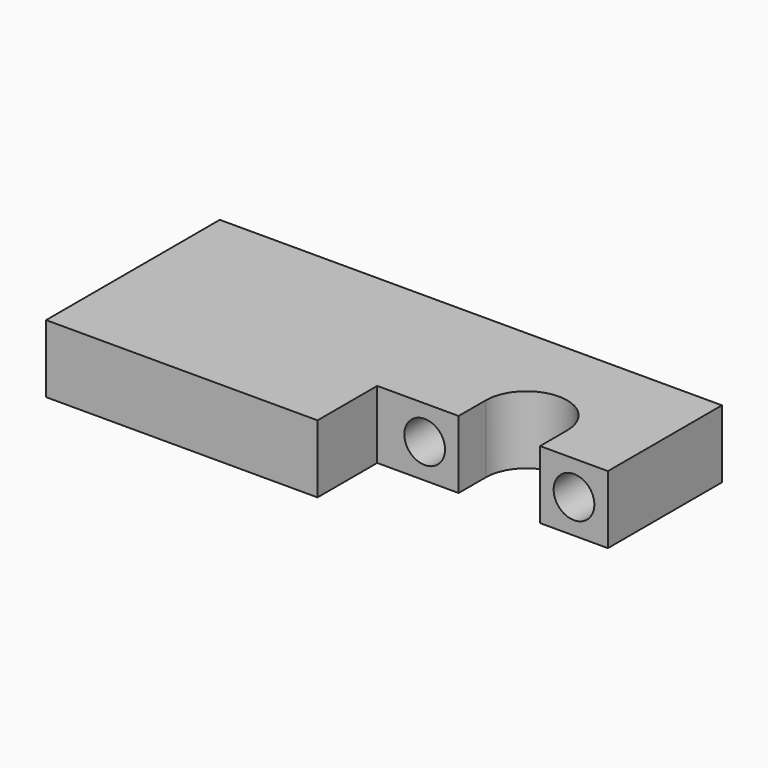
from build123d import *

# Parameters (mm, degrees)
F1_DEPTH = 5
F2_R     = 1.5
F3_DEPTH = 10.501


with BuildPart() as f1:
    # F0 (on Top) → F1 (new body)
    with BuildSketch(Plane.XY):
        with BuildLine():
            Line((0, 16), (0, 0))
            Line((0, 0), (20, 0))
            Line((20, 0), (20, 5.5))
            Line((20, 5.5), (26, 5.5))
            Line((26, 5.5), (26, 8))
            ThreePointArc((26, 8), (29, 11), (32, 8))
            Line((32, 8), (32, 5.5))
            Line((32, 5.5), (37, 5.5))
            Line((37, 5.5), (37, 16))
            Line((37, 16), (0, 16))
        make_face()
    extrude(amount=F1_DEPTH)

    # F2 (on face) → F3 (cut, through all)
    with BuildSketch(Plane.XZ.offset(-5.5)):
        with Locations((23.5, 2.5)):
            Circle(F2_R)
        with Locations((34.5, 2.5)):
            Circle(F2_R)
    extrude(amount=-F3_DEPTH, mode=Mode.SUBTRACT)


solid = f1.part
